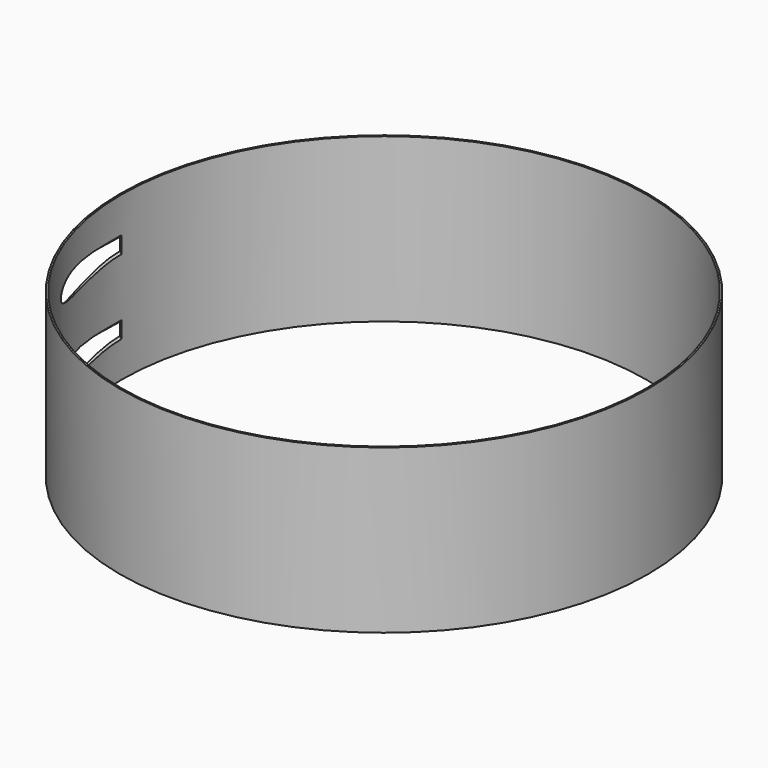
from build123d import *

# Parameters (mm, degrees)
F0_R     = 987.425
F0_R_2   = 981.075
F1_DEPTH = 609.6
F2_R     = 44.45
F3_DEPTH = 987.426


with BuildPart() as f1:
    # F0 (on Top) → F1 (new body)
    with BuildSketch(Plane.XY):
        Circle(F0_R)
        Circle(F0_R_2, mode=Mode.SUBTRACT)
    extrude(amount=F1_DEPTH)

    # F2 (on Front) → F3 (cut, through all)
    with BuildSketch(Plane.XZ):
        with Locations((-949.452, 444.5)):
            Circle(F2_R)
        with Locations((-949.452, 165.1)):
            Circle(F2_R)
    extrude(amount=F3_DEPTH, mode=Mode.SUBTRACT)


solid = f1.part
